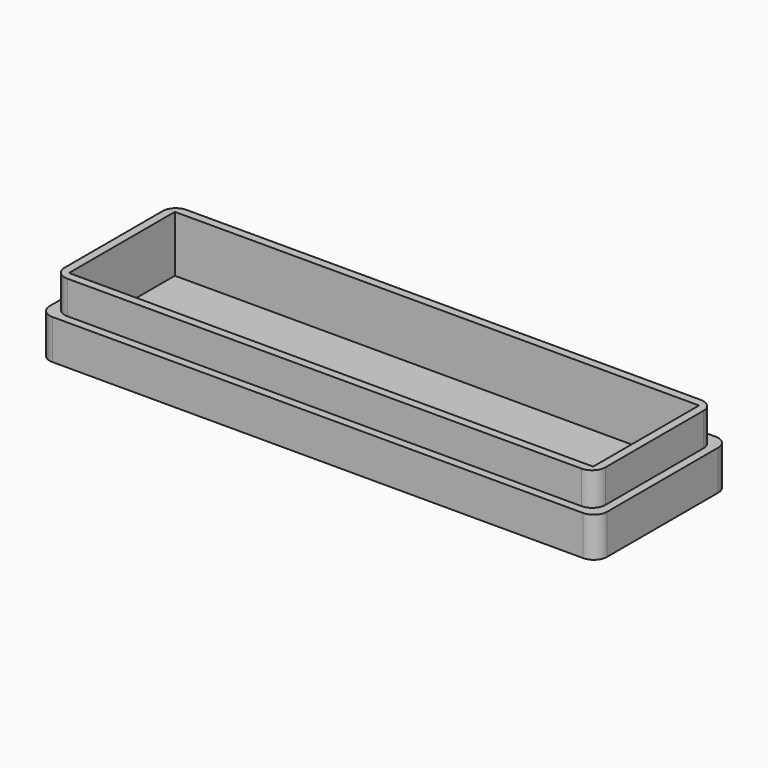
from build123d import *

# Parameters (mm, degrees)
F0_W     = 106.934
F0_H     = 31.75
F0_W_2   = 100.584
F0_H_2   = 25.4
F1_DEPTH = 13.97
F2_DEPTH = 3.175
F3_W     = 106.934
F3_H     = 31.75
F3_W_2   = 103.759
F3_H_2   = 28.575
F4_DEPTH = 6.35
F5_R     = 2.54


with BuildPart() as f1:
    # F0 (on Top) → F1 (new body)
    with BuildSketch(Plane.XY):
        with Locations((50.292, 12.7)):
            Rectangle(F0_W, F0_H)
        with Locations((50.292, 12.7)):
            Rectangle(F0_W_2, F0_H_2, mode=Mode.SUBTRACT)
    extrude(amount=F1_DEPTH)

    # F0 (on Top) → F2 (join)
    with BuildSketch(Plane.XY):
        with Locations((50.292, 12.7)):
            Rectangle(F0_W_2, F0_H_2)
    extrude(amount=F2_DEPTH)

    # F3 (on face) → F4 (cut)
    with BuildSketch(Plane.XY.offset(13.97)):
        with Locations((50.292, 12.7)):
            Rectangle(F3_W, F3_H)
        with Locations((50.292, 12.7)):
            Rectangle(F3_W_2, F3_H_2, mode=Mode.SUBTRACT)
    extrude(amount=-F4_DEPTH, mode=Mode.SUBTRACT)

    # F5
    f5_edges = [f1.edges().sort_by_distance(p)[0] for p in [
        (-1.5875, -1.5875, 10.795),
        (-3.175, -3.175, 3.81),
        (-1.5875, 26.9875, 10.795),
        (-3.175, 28.575, 3.81),
        (102.1715, -1.5875, 10.795),
        (103.759, -3.175, 3.81),
        (103.759, 28.575, 3.81),
        (102.1715, 26.9875, 10.795),
    ]]
    fillet(f5_edges, radius=F5_R)


solid = f1.part
